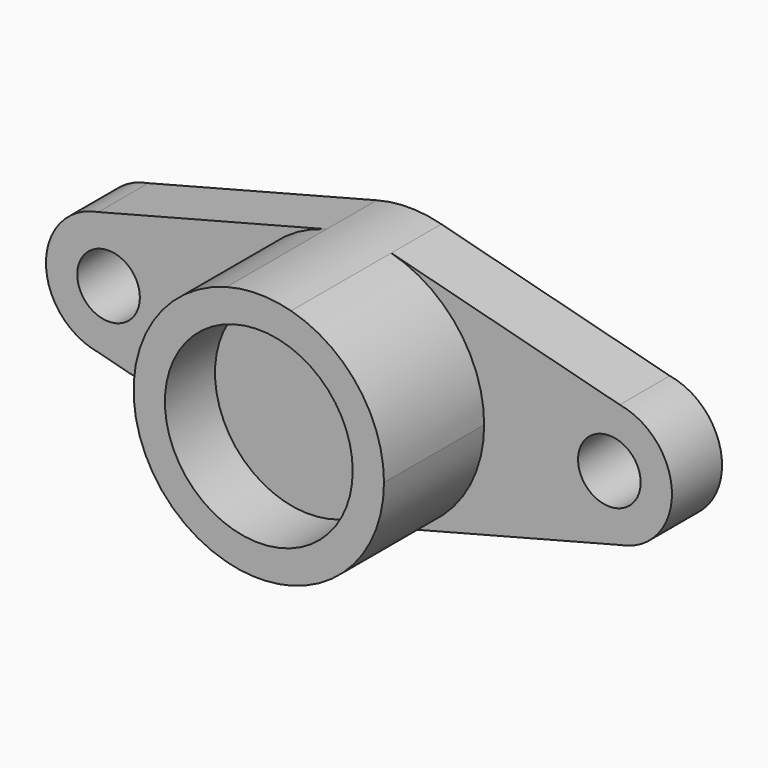
from build123d import *

# Parameters (mm, degrees)
F1_DEPTH = 10
F2_R     = 5
F3_DEPTH = 10.001
F5_DEPTH = 20
F6_R     = 15
F7_DEPTH = 10


with BuildPart() as f1:
    # F0 (on Front) → F1 (new body)
    with BuildSketch(Plane.XZ):
        with BuildLine():
            Line((5.158226, -19.323372), (41.659475, -9.861346))
            ThreePointArc((41.659475, -9.861346), (50, 0), (41.659475, 9.861346))
            Line((41.659475, 9.861346), (5.158226, 19.323372))
            ThreePointArc((5.158226, 19.323372), (15.861345, 12.182682), (20, 0))
            ThreePointArc((20, 0), (15.861345, -12.182682), (5.158226, -19.323372))
        make_face()
        with BuildLine():
            ThreePointArc((-5.158226, -19.323372), (0, -20), (5.158226, -19.323372))
            ThreePointArc((5.158226, -19.323372), (15.861345, -12.182682), (20, 0))
            ThreePointArc((20, 0), (15.861345, 12.182682), (5.158226, 19.323372))
            ThreePointArc((5.158226, 19.323372), (0, 20), (-5.158226, 19.323372))
            ThreePointArc((-5.158226, 19.323372), (-20, 0), (-5.158226, -19.323372))
        make_face()
        with BuildLine():
            Line((-41.659475, -9.861346), (-5.158226, -19.323372))
            ThreePointArc((-5.158226, -19.323372), (-20, 0), (-5.158226, 19.323372))
            Line((-5.158226, 19.323372), (-41.659475, 9.861346))
            ThreePointArc((-41.659475, 9.861346), (-50, 0), (-41.659475, -9.861346))
        make_face()
    extrude(amount=F1_DEPTH)

    # F2 (on face) → F3 (cut, through all)
    with BuildSketch(Plane.XZ.offset(10)):
        with Locations((40, 0)):
            Circle(F2_R)
        with Locations((-40, 0)):
            Circle(F2_R)
    extrude(amount=-F3_DEPTH, mode=Mode.SUBTRACT)

    # F4 (on face) → F5 (join)
    with BuildSketch(Plane.XZ.offset(10)):
        with BuildLine():
            ThreePointArc((5.158226, -19.323372), (15.861345, -12.182682), (20, 0))
            ThreePointArc((20, 0), (15.861345, 12.182682), (5.158226, 19.323372))
            ThreePointArc((5.158226, 19.323372), (0, 20), (-5.158226, 19.323372))
            ThreePointArc((-5.158226, 19.323372), (-20, 0), (-5.158226, -19.323372))
            ThreePointArc((-5.158226, -19.323372), (0, -20), (5.158226, -19.323372))
        make_face()
    extrude(amount=F5_DEPTH)

    # F6 (on face) → F7 (cut)
    with BuildSketch(Plane.XZ.offset(30)):
        Circle(F6_R)
    extrude(amount=-F7_DEPTH, mode=Mode.SUBTRACT)


solid = f1.part
